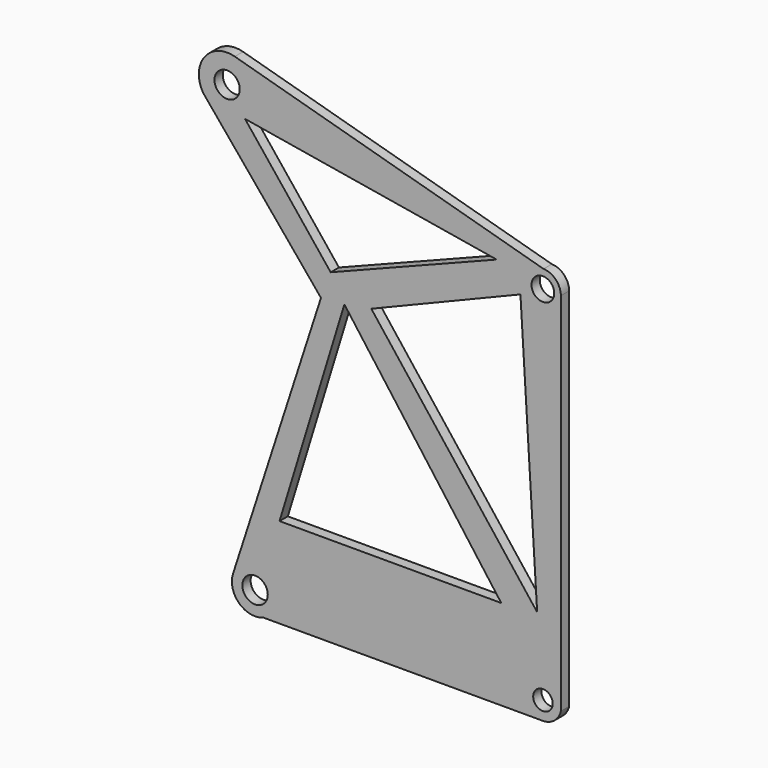
from build123d import *

# Parameters (mm, degrees)
F0_R     = 3.118101
F0_R_2   = 2.391899
F0_R_3   = 3.09485
F0_R_4   = 2.789347
F1_DEPTH = 2.54


with BuildPart() as f1:
    # F0 (on Front) → F1 (new body)
    with BuildSketch(Plane.XZ):
        with BuildLine():
            ThreePointArc((-42.396322, -48.584666), (-40.893992, -54.463207), (-34.939781, -55.630088))
            Line((-34.939781, -55.630088), (33.586267, -55.630088))
            ThreePointArc((33.586267, -55.630088), (36.404137, -54.636666), (37.975974, -52.095681))
            Line((37.975974, -52.095681), (37.975974, 37.562497))
            ThreePointArc((37.975974, 37.562497), (36.737459, 40.626378), (33.717722, 41.968942))
            Line((33.717722, 41.968942), (-41.97007, 63.180551))
            ThreePointArc((-41.97007, 63.180551), (-49.42771, 60.608198), (-49.647491, 52.722447))
            Line((-49.647491, 52.722447), (-20.833982, 17.965764))
            Line((-20.833982, 17.965764), (-42.396322, -48.584666))
        make_face()
        with Locations((-36.99355, -50.335164)):
            Circle(F0_R, mode=Mode.SUBTRACT)
        with Locations((33.586267, -51.136893)):
            Circle(F0_R_2, mode=Mode.SUBTRACT)
        Polygon((23.365004, -33.512361), (-30.987732, -33.512361), (-15.091307, 18.429529), align=None, mode=Mode.SUBTRACT)
        Polygon((28.063117, 34.616884), (32.164525, -32.620855), (-8.49389, 19.635132), align=None, mode=Mode.SUBTRACT)
        with Locations((-43.840472, 56.506539)):
            Circle(F0_R_3, mode=Mode.SUBTRACT)
        Polygon((22.234073, 40.242676), (-18.454095, 24.267845), (-39.46146, 50.549764), align=None, mode=Mode.SUBTRACT)
        with Locations((33.566951, 37.562497)):
            Circle(F0_R_4, mode=Mode.SUBTRACT)
    extrude(amount=F1_DEPTH)


solid = f1.part
